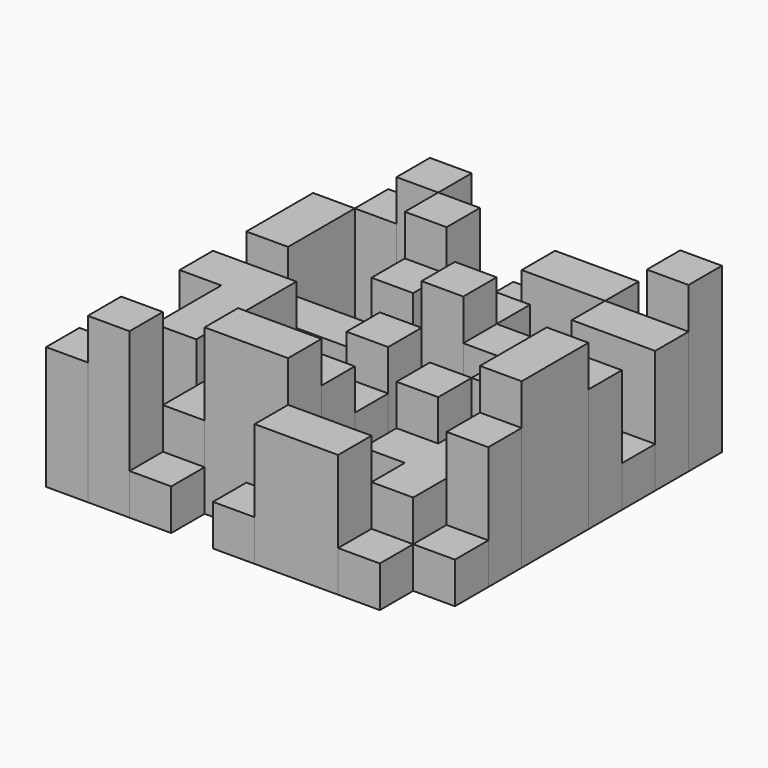
from build123d import *

# Parameters (mm, degrees)
F0_W      = 50.8
F0_H      = 50.8
F3_DEPTH  = 50.038
F0_W_2    = 50.7824690908
F4_DEPTH  = 100.076
F6_DEPTH  = 100.076
F7_DEPTH  = 149.86
F8_DEPTH  = 199.898
F9_DEPTH  = 149.86
F10_DEPTH = 50.038


with BuildPart() as f1:
    # F0 (on Top) → F1 (revolve)
    with BuildSketch(Plane.XY):
        with Locations((-152.4, 50.8)):
            Rectangle(F0_W, F0_H)
    revolve(axis=Axis((0, -228.6, 0), (1, 0, 0)))


with BuildPart() as f3:
    # F0 (on Top) → F3 (new body)
    with BuildSketch(Plane.XY):
        with Locations((-50.8, 203.2)):
            Rectangle(F0_W, F0_H)
    extrude(amount=F3_DEPTH)


with BuildPart() as f3b:
    # F0 (on Top) → F3, piece 2 (new body)
    with BuildSketch(Plane.XY):
        with Locations((152.4175309092, 203.2)):
            Rectangle(F0_W, F0_H)
    extrude(amount=F3_DEPTH)


with BuildPart() as f3c:
    # F0 (on Top) → F3, piece 3 (new body)
    with BuildSketch(Plane.XY):
        with Locations((-101.6, 152.4)):
            Rectangle(F0_W, F0_H)
        with Locations((-152.4, 101.6)):
            Rectangle(F0_W, F0_H)
        with Locations((-101.6, 101.6)):
            Rectangle(F0_W, F0_H)
    extrude(amount=F3_DEPTH)


with BuildPart() as f3d:
    # F0 (on Top) → F3, piece 4 (new body)
    with BuildSketch(Plane.XY):
        with Locations((50.8175309092, 152.4)):
            Rectangle(F0_W, F0_H)
        with Locations((101.6175309092, 152.4)):
            Rectangle(F0_W, F0_H)
    extrude(amount=F3_DEPTH)


with BuildPart() as f3e:
    # F0 (on Top) → F3, piece 5 (new body)
    with BuildSketch(Plane.XY):
        with Locations((203.2087654546, 101.6)):
            Rectangle(F0_W_2, F0_H)
    extrude(amount=F3_DEPTH)


with BuildPart() as f3f:
    # F0 (on Top) → F3, piece 6 (new body)
    with BuildSketch(Plane.XY):
        with Locations((0, 101.6)):
            Rectangle(F0_W, F0_H)
    extrude(amount=F3_DEPTH)


with BuildPart() as f3g:
    # F0 (on Top) → F3, piece 7 (new body)
    with BuildSketch(Plane.XY):
        with Locations((-50.8, 0)):
            Rectangle(F0_W, F0_H)
        with Locations((-101.6, 0)):
            Rectangle(F0_W, F0_H)
        with Locations((-50.8, -50.8)):
            Rectangle(F0_W, F0_H)
        with Locations((-50.8, -101.6)):
            Rectangle(F0_W, F0_H)
    extrude(amount=F3_DEPTH)


with BuildPart() as f3h:
    # F0 (on Top) → F3, piece 8 (new body)
    with BuildSketch(Plane.XY):
        with Locations((50.8175309092, 0)):
            Rectangle(F0_W, F0_H)
        with Locations((101.6175309092, 0)):
            Rectangle(F0_W, F0_H)
    extrude(amount=F3_DEPTH)


with BuildPart() as f3i:
    # F0 (on Top) → F3, piece 9 (new body)
    with BuildSketch(Plane.XY):
        with Locations((50.8175309092, -101.6)):
            Rectangle(F0_W, F0_H)
    extrude(amount=F3_DEPTH)


with BuildPart() as f3j:
    # F0 (on Top) → F3, piece 10 (new body)
    with BuildSketch(Plane.XY):
        with Locations((101.6175309092, -152.4)):
            Rectangle(F0_W, F0_H)
    extrude(amount=F3_DEPTH)


with BuildPart() as f3k:
    # F0 (on Top) → F3, piece 11 (new body)
    with BuildSketch(Plane.XY):
        Polygon((25.4, -177.8), (-25.4, -177.8), (-25.4, -228.6), (25.4, -228.6), (25.4175309092, -228.6), (25.4175309092, -177.8), align=None)
    extrude(amount=F3_DEPTH)


with BuildPart() as f3l:
    # F0 (on Top) → F3, piece 12 (new body)
    with BuildSketch(Plane.XY):
        with Locations((152.4175309092, -203.2)):
            Rectangle(F0_W, F0_H)
    extrude(amount=F3_DEPTH)


with BuildPart() as f3m:
    # F0 (on Top) → F3, piece 13 (new body)
    with BuildSketch(Plane.XY):
        with Locations((-101.6, -203.2)):
            Rectangle(F0_W, F0_H)
    extrude(amount=F3_DEPTH)


with BuildPart() as f4:
    # F0 (on Top) → F4 (new body)
    with BuildSketch(Plane.XY):
        with Locations((0, 203.2)):
            Rectangle(F0_W, F0_H)
        with Locations((0, 152.4)):
            Rectangle(F0_W, F0_H)
    extrude(amount=F4_DEPTH)


with BuildPart() as f4b:
    # F0 (on Top) → F4, piece 2 (new body)
    with BuildSketch(Plane.XY):
        with Locations((101.6175309092, 101.6)):
            Rectangle(F0_W, F0_H)
        with Locations((50.8175309092, 101.6)):
            Rectangle(F0_W, F0_H)
    extrude(amount=F4_DEPTH)


with BuildPart() as f4c:
    # F0 (on Top) → F4, piece 3 (new body)
    with BuildSketch(Plane.XY):
        with Locations((-152.4, 50.8)):
            Rectangle(F0_W, F0_H)
        with Locations((-101.6, 50.8)):
            Rectangle(F0_W, F0_H)
        with Locations((-203.2, 50.8)):
            Rectangle(F0_W, F0_H)
        with Locations((-50.8, 50.8)):
            Rectangle(F0_W, F0_H)
    extrude(amount=F4_DEPTH)


with BuildPart() as f4d:
    # F0 (on Top) → F4, piece 4 (new body)
    with BuildSketch(Plane.XY):
        with Locations((152.4175309092, 50.8)):
            Rectangle(F0_W, F0_H)
    extrude(amount=F4_DEPTH)


with BuildPart() as f4e:
    # F0 (on Top) → F4, piece 5 (new body)
    with BuildSketch(Plane.XY):
        with Locations((-203.2, -50.8)):
            Rectangle(F0_W, F0_H)
        with Locations((-203.2, -101.6)):
            Rectangle(F0_W, F0_H)
        with Locations((-203.2, -152.4)):
            Rectangle(F0_W, F0_H)
    extrude(amount=F4_DEPTH)


with BuildPart() as f4f:
    # F0 (on Top) → F4, piece 6 (new body)
    with BuildSketch(Plane.XY):
        with Locations((-101.6, -50.8)):
            Rectangle(F0_W, F0_H)
        with Locations((-101.6, -101.6)):
            Rectangle(F0_W, F0_H)
        with Locations((-101.6, -152.4)):
            Rectangle(F0_W, F0_H)
    extrude(amount=F4_DEPTH)


with BuildPart() as f4g:
    # F0 (on Top) → F4, piece 7 (new body)
    with BuildSketch(Plane.XY):
        with Locations((152.4175309092, -50.8)):
            Rectangle(F0_W, F0_H)
        with Locations((101.6175309092, -101.6)):
            Rectangle(F0_W, F0_H)
        with Locations((152.4175309092, -101.6)):
            Rectangle(F0_W, F0_H)
        with Locations((152.4175309092, -152.4)):
            Rectangle(F0_W, F0_H)
    extrude(amount=F4_DEPTH)


with BuildPart() as f4h:
    # F0 (on Top) → F4, piece 8 (new body)
    with BuildSketch(Plane.XY):
        with Locations((0, -50.8)):
            Rectangle(F0_W, F0_H)
    extrude(amount=F4_DEPTH)


with BuildPart() as f6:
    # F0 (on Top) → F6 (new body)
    with BuildSketch(Plane.XY):
        with Locations((101.6175309092, 101.6)):
            Rectangle(F0_W, F0_H)
        with Locations((152.4175309092, 101.6)):
            Rectangle(F0_W, F0_H)
    extrude(amount=F6_DEPTH)


with BuildPart() as f7:
    # F0 (on Top) → F7 (new body)
    with BuildSketch(Plane.XY):
        with Locations((-152.4, 203.2)):
            Rectangle(F0_W, F0_H)
    extrude(amount=F7_DEPTH)


with BuildPart() as f7b:
    # F0 (on Top) → F7, piece 2 (new body)
    with BuildSketch(Plane.XY):
        with Locations((-203.2, 152.4)):
            Rectangle(F0_W, F0_H)
        with Locations((-203.2, 101.6)):
            Rectangle(F0_W, F0_H)
    extrude(amount=F7_DEPTH)


with BuildPart() as f7c:
    # F0 (on Top) → F7, piece 3 (new body)
    with BuildSketch(Plane.XY):
        with Locations((50.8175309092, 203.2)):
            Rectangle(F0_W, F0_H)
        with Locations((101.6175309092, 203.2)):
            Rectangle(F0_W, F0_H)
    extrude(amount=F7_DEPTH)


with BuildPart() as f7d:
    # F0 (on Top) → F7, piece 4 (new body)
    with BuildSketch(Plane.XY):
        with Locations((152.4175309092, 152.4)):
            Rectangle(F0_W, F0_H)
        with Locations((203.2087654546, 152.4)):
            Rectangle(F0_W_2, F0_H)
    extrude(amount=F7_DEPTH)


with BuildPart() as f7e:
    # F0 (on Top) → F7, piece 5 (new body)
    with BuildSketch(Plane.XY):
        with Locations((-50.8, 101.6)):
            Rectangle(F0_W, F0_H)
    extrude(amount=F7_DEPTH)


with BuildPart() as f7f:
    # F0 (on Top) → F7, piece 6 (new body)
    with BuildSketch(Plane.XY):
        with Locations((50.8175309092, 101.6)):
            Rectangle(F0_W, F0_H)
    extrude(amount=F7_DEPTH)


with BuildPart() as f7g:
    # F0 (on Top) → F7, piece 7 (new body)
    with BuildSketch(Plane.XY):
        with Locations((101.6175309092, 50.8)):
            Rectangle(F0_W, F0_H)
    extrude(amount=F7_DEPTH)


with BuildPart() as f7h:
    # F0 (on Top) → F7, piece 8 (new body)
    with BuildSketch(Plane.XY):
        with Locations((203.2087654546, 50.8)):
            Rectangle(F0_W_2, F0_H)
    extrude(amount=F7_DEPTH)


with BuildPart() as f7i:
    # F0 (on Top) → F7, piece 9 (new body)
    with BuildSketch(Plane.XY):
        with Locations((-203.2, 0)):
            Rectangle(F0_W, F0_H)
        with Locations((-152.4, 0)):
            Rectangle(F0_W, F0_H)
        with Locations((-152.4, -50.8)):
            Rectangle(F0_W, F0_H)
        with Locations((-152.4, -101.6)):
            Rectangle(F0_W, F0_H)
    extrude(amount=F7_DEPTH)


with BuildPart() as f7j:
    # F0 (on Top) → F7, piece 10 (new body)
    with BuildSketch(Plane.XY):
        Rectangle(F0_W, F0_H)
    extrude(amount=F7_DEPTH)


with BuildPart() as f7k:
    # F0 (on Top) → F7, piece 11 (new body)
    with BuildSketch(Plane.XY):
        with Locations((152.4175309092, 0)):
            Rectangle(F0_W, F0_H)
    extrude(amount=F7_DEPTH)


with BuildPart() as f7l:
    # F0 (on Top) → F7, piece 12 (new body)
    with BuildSketch(Plane.XY):
        with Locations((101.6175309092, -50.8)):
            Rectangle(F0_W, F0_H)
    extrude(amount=F7_DEPTH)


with BuildPart() as f7m:
    # F0 (on Top) → F7, piece 13 (new body)
    with BuildSketch(Plane.XY):
        with Locations((0, -101.6)):
            Rectangle(F0_W, F0_H)
    extrude(amount=F7_DEPTH)


with BuildPart() as f7n:
    # F0 (on Top) → F7, piece 14 (new body)
    with BuildSketch(Plane.XY):
        with Locations((-203.2, -203.2)):
            Rectangle(F0_W, F0_H)
    extrude(amount=F7_DEPTH)


with BuildPart() as f7o:
    # F0 (on Top) → F7, piece 15 (new body)
    with BuildSketch(Plane.XY):
        with Locations((50.8175309092, -203.2)):
            Rectangle(F0_W, F0_H)
        with Locations((101.6175309092, -203.2)):
            Rectangle(F0_W, F0_H)
    extrude(amount=F7_DEPTH)


with BuildPart() as f8:
    # F0 (on Top) → F8 (new body)
    with BuildSketch(Plane.XY):
        with Locations((-101.6, 203.2)):
            Rectangle(F0_W, F0_H)
    extrude(amount=F8_DEPTH)


with BuildPart() as f8b:
    # F0 (on Top) → F8, piece 2 (new body)
    with BuildSketch(Plane.XY):
        with Locations((203.2087654546, 203.2)):
            Rectangle(F0_W_2, F0_H)
    extrude(amount=F8_DEPTH)


with BuildPart() as f8c:
    # F0 (on Top) → F8, piece 3 (new body)
    with BuildSketch(Plane.XY):
        with Locations((-50.8, 152.4)):
            Rectangle(F0_W, F0_H)
    extrude(amount=F8_DEPTH)


with BuildPart() as f8d:
    # F0 (on Top) → F8, piece 4 (new body)
    with BuildSketch(Plane.XY):
        with Locations((50.8175309092, 50.8)):
            Rectangle(F0_W, F0_H)
    extrude(amount=F8_DEPTH)


with BuildPart() as f8e:
    # F0 (on Top) → F8, piece 5 (new body)
    with BuildSketch(Plane.XY):
        with Locations((203.2087654546, 0)):
            Rectangle(F0_W_2, F0_H)
        with Locations((203.2087654546, -50.8)):
            Rectangle(F0_W_2, F0_H)
    extrude(amount=F8_DEPTH)


with BuildPart() as f8f:
    # F0 (on Top) → F8, piece 6 (new body)
    with BuildSketch(Plane.XY):
        with Locations((-50.8, -152.4)):
            Rectangle(F0_W, F0_H)
        with Locations((0, -152.4)):
            Rectangle(F0_W, F0_H)
    extrude(amount=F8_DEPTH)


with BuildPart() as f8g:
    # F0 (on Top) → F8, piece 7 (new body)
    with BuildSketch(Plane.XY):
        with Locations((-152.4, -203.2)):
            Rectangle(F0_W, F0_H)
    extrude(amount=F8_DEPTH)


with BuildPart() as f9:
    # F0 (on Top) → F9 (new body)
    with BuildSketch(Plane.XY):
        with Locations((203.2087654546, -101.6)):
            Rectangle(F0_W_2, F0_H)
    extrude(amount=F9_DEPTH)


with BuildPart() as f10:
    # F0 (on Top) → F10 (new body)
    with BuildSketch(Plane.XY):
        with Locations((203.2087654546, -152.4)):
            Rectangle(F0_W_2, F0_H)
    extrude(amount=F10_DEPTH)


solid = Compound([f3.part, f3b.part, f3c.part, f3d.part, f3e.part, f3f.part, f3g.part, f3h.part, f3i.part, f3j.part, f3k.part, f3l.part, f3m.part, f4.part, f4c.part, f4d.part, f4e.part, f4f.part, f4g.part, f4h.part, f6.part, f7.part, f7b.part, f7c.part, f7d.part, f7e.part, f7f.part, f7g.part, f7h.part, f7i.part, f7j.part, f7k.part, f7l.part, f7m.part, f7n.part, f7o.part, f8.part, f8b.part, f8c.part, f8d.part, f8e.part, f8f.part, f8g.part, f9.part, f10.part])
